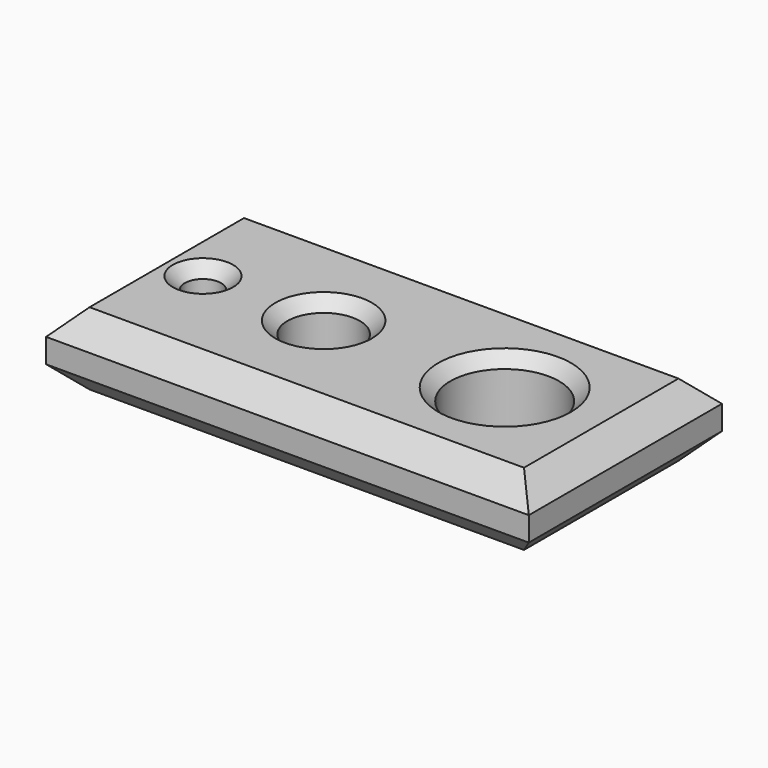
from build123d import *

# Parameters (mm, degrees)
F0_W     = 200
F0_H     = 100
F0_R     = 7.5
F0_R_2   = 15
F0_R_3   = 22.5
F1_DEPTH = 30
F2_SIZE  = 10
F3_SIZE  = 5


with BuildPart() as f1:
    # F0 (on Top) → F1 (new body)
    with BuildSketch(Plane.XY):
        Rectangle(F0_W, F0_H)
        with Locations((-75, 0)):
            Circle(F0_R, mode=Mode.SUBTRACT)
        with Locations((-25, 0)):
            Circle(F0_R_2, mode=Mode.SUBTRACT)
        with Locations((50, 0)):
            Circle(F0_R_3, mode=Mode.SUBTRACT)
    extrude(amount=F1_DEPTH)

    # F2
    f2_edges = [f1.edges().sort_by_distance(p)[0] for p in [
        (-100, 0, 30),
        (0, 50, 30),
        (0, -50, 30),
        (100, 0, 30),
        (0, -50, 0),
        (-100, 0, 0),
        (0, 50, 0),
        (100, 0, 0),
    ]]
    chamfer(f2_edges, length=F2_SIZE)

    # F3
    f3_edges = [f1.edges().sort_by_distance(p)[0] for p in [
        (-40, 0, 30),
        (-82.5, 0, 30),
        (27.5, 0, 30),
    ]]
    chamfer(f3_edges, length=F3_SIZE)


solid = f1.part
